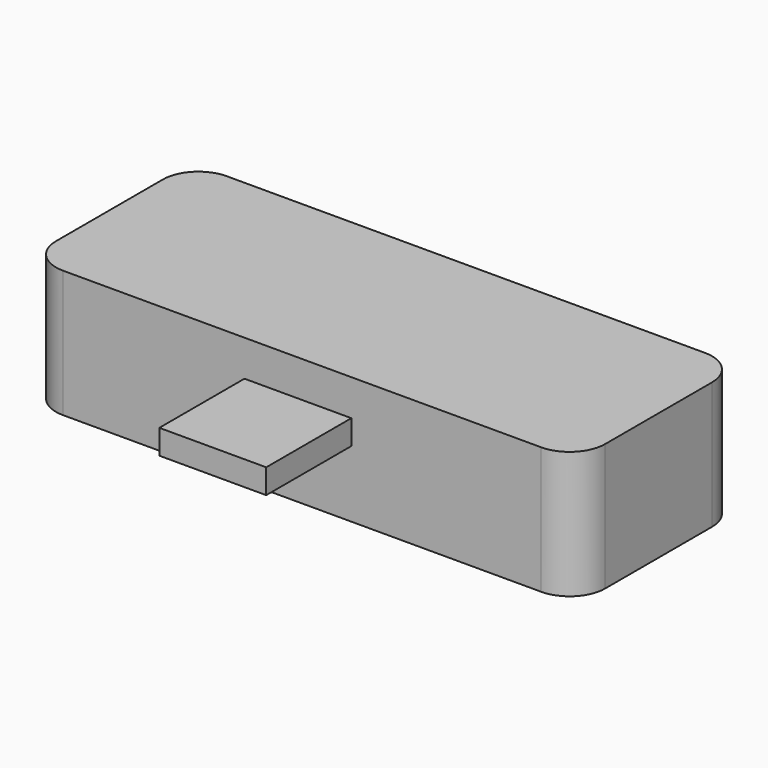
from build123d import *

# Parameters (mm, degrees)
F0_W     = 67.1
F0_H     = 15.54066
F1_DEPTH = 25
F2_R     = 4.345584
F3_W     = 13.058827
F3_H     = 3
F4_DEPTH = 13
F5_W     = 17.786888
F5_H     = 3.586066
F6_DEPTH = 12.5


with BuildPart() as f1:
    # F0 (on Front) → F1 (new body)
    with BuildSketch(Plane.XZ):
        with Locations((3.872952, -1.860657)):
            Rectangle(F0_W, F0_H)
    extrude(amount=F1_DEPTH)

    # F2
    f2_edges = [f1.edges().sort_by_distance(p)[0] for p in [
        (37.422952, 0, -1.860657),
        (-29.677048, 0, -1.860657),
        (37.422952, -25, -1.860657),
        (-29.677048, -25, -1.860657),
    ]]
    fillet(f2_edges, radius=F2_R)

    # F3 (on face) → F4 (join)
    with BuildSketch(Plane.XZ.offset(25)):
        with Locations((3.352943, 0)):
            Rectangle(F3_W, F3_H)
    extrude(amount=F4_DEPTH)

    # F5 (on face) → F6 (cut, symmetric)
    with BuildSketch(Plane(origin=(0, 0, 0), x_dir=(-1, 0, 0), z_dir=(0, 1, 0))):
        with Locations((-2.295081, -1.793033)):
            Rectangle(F5_W, F5_H)
    extrude(amount=F6_DEPTH, both=True, mode=Mode.SUBTRACT)


solid = f1.part
